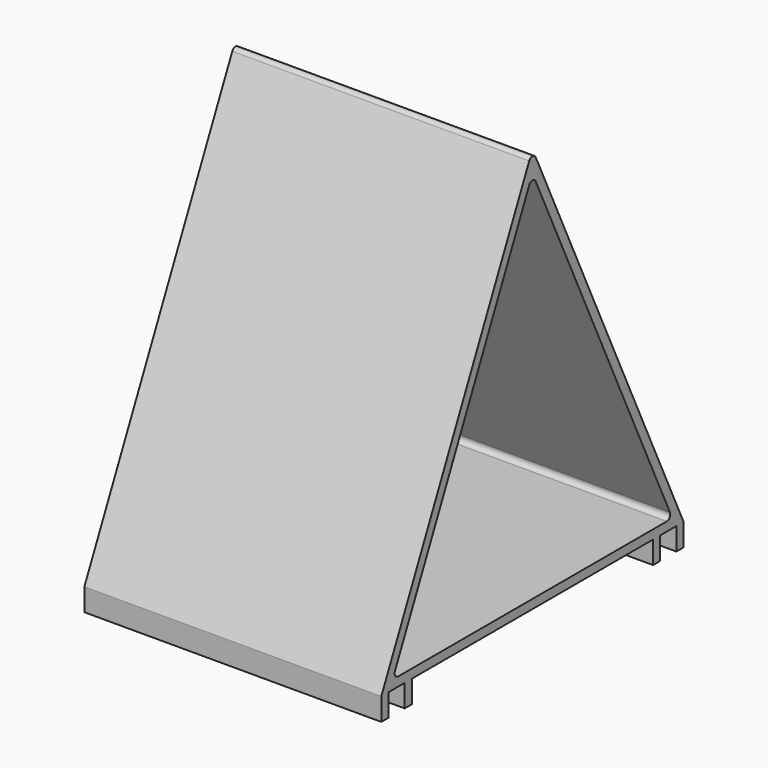
from build123d import *

# Parameters (mm, degrees)
F0_W     = 2
F0_H     = 5
F1_DEPTH = 66
F2_R     = 1
F3_R     = 1


with BuildPart() as f1:
    # F0 (on Right) → F1 (new body)
    with BuildSketch(Plane.YZ):
        Polygon((-33.5, 0), (0, 0), (33.5, 0), (35.5, 0), (40, 0), (42, 0), (0, 90), (-42, 0), (-42, -5), (-40, -5), (-40, 0), (-35.5, 0), (-35.5, -5), (-33.5, -5), align=None)
        Polygon((38.859607, 2), (0, 2), (-38.859607, 2), (0, 85.270587), align=None, mode=Mode.SUBTRACT)
        with Locations((34.5, -2.5)):
            Rectangle(F0_W, F0_H)
        with Locations((41, -2.5)):
            Rectangle(F0_W, F0_H)
    extrude(amount=F1_DEPTH)

    # F2
    f2_edges = [f1.edges().sort_by_distance(p)[0] for p in [
        (33, 0, 90),
    ]]
    fillet(f2_edges, radius=F2_R)

    # F3
    f3_edges = [f1.edges().sort_by_distance(p)[0] for p in [
        (33, 0, 85.270587),
        (33, 38.859607, 2),
        (33, -38.859607, 2),
    ]]
    fillet(f3_edges, radius=F3_R)


solid = f1.part
